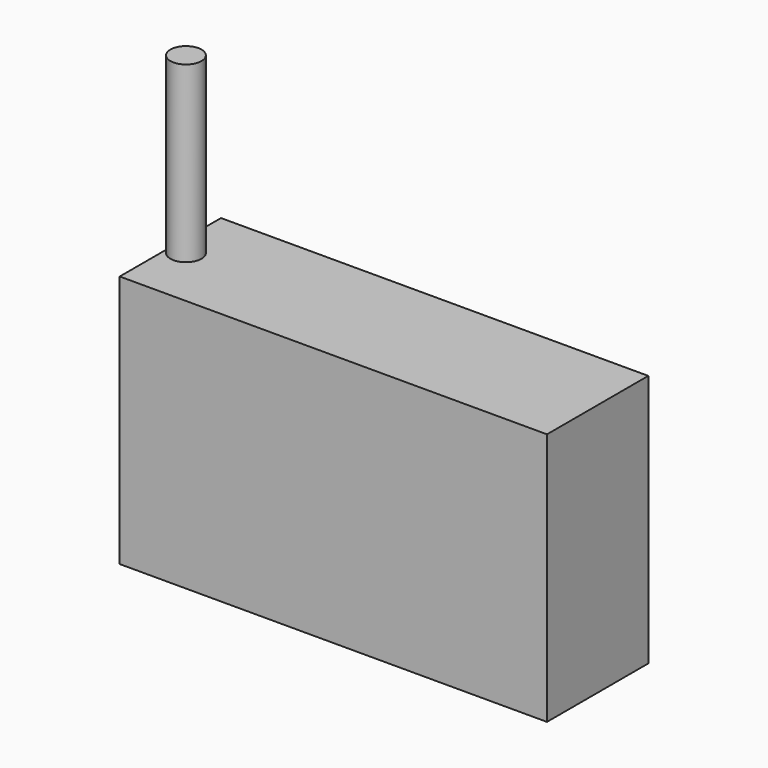
from build123d import *

# Parameters (mm, degrees)
SKETCH_W     = 2057.4
SKETCH_H     = 609.6
PAD_DEPTH    = 1219.2
SKETCH001_R  = 74.985
PAD001_DEPTH = 838.2


with BuildPart() as part:
    # Sketch → Pad (new body)
    with BuildSketch(Plane.XY):
        with Locations((1028.7, 304.8)):
            Rectangle(SKETCH_W, SKETCH_H)
    extrude(amount=PAD_DEPTH)

    # Sketch001 (on Face6 of Pad) → Pad001 (join)
    with BuildSketch(Plane.XY.offset(1219.2)):
        with Locations((74.985, 304.8)):
            Circle(SKETCH001_R)
    extrude(amount=PAD001_DEPTH)


solid = part.part
